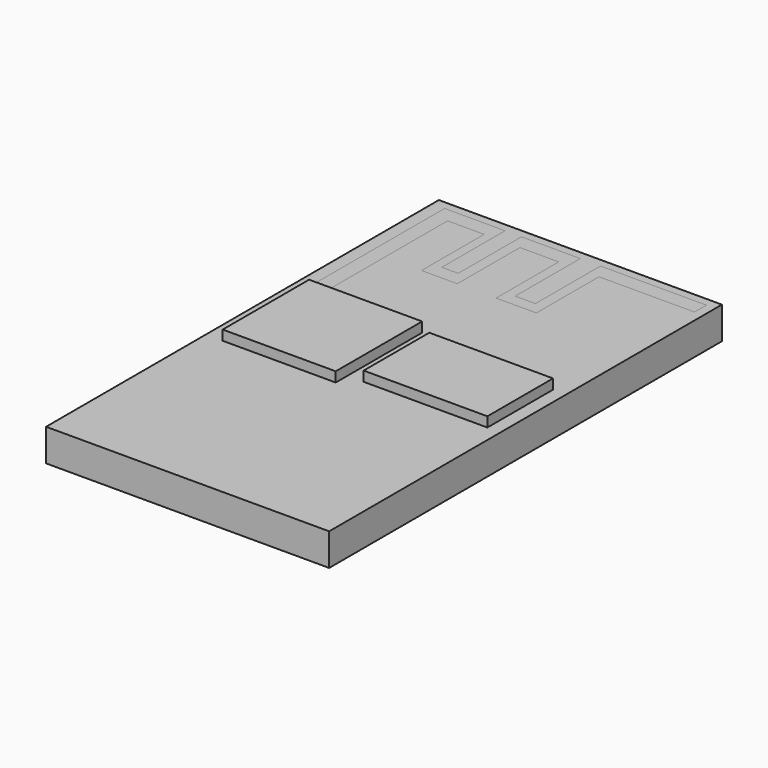
from build123d import *

# Parameters (mm, degrees)
F0_W     = 14.3
F0_H     = 24.8
F1_DEPTH = 1.63
F3_DEPTH = 1
F4_DEPTH = 1
F5_W     = 5.709587
F5_H     = 5.455827
F5_W_2   = 6.250733
F5_H_2   = 4.144751
F6_DEPTH = 0.5


with BuildPart() as f1:
    # F0 (on Top) → F1 (new body)
    with BuildSketch(Plane.XY):
        Rectangle(F0_W, F0_H)
    extrude(amount=F1_DEPTH)

    # F2 (on face) → F3 (cut)
    with BuildSketch(Plane.XY.offset(1.63)):
        Polygon((1.879126, 11.228926), (6.702036, 11.228926), (6.702036, 11.982505), (1.35162, 11.982505), (1.35162, 7.875495), (0.33, 7.875495), (0.33, 11.982505), (-2.642353, 11.982505), (-2.642353, 7.988532), (-3.47129, 7.988532), (-3.47129, 11.982505), (-6.523289, 11.982505), (-6.523289, 3.127943), (-5.769709, 3.127943), (-5.769709, 11.228926), (-3.923438, 11.228926), (-3.923438, 7.272632), (-2.114847, 7.272632), (-2.114847, 11.228926), (-0.155539, 11.228926), (-0.155539, 7.272632), (1.879126, 7.272632), align=None)
    extrude(amount=-F3_DEPTH, mode=Mode.SUBTRACT)


with BuildPart() as f4:
    # F2 (on face) → F4 (new body)
    with BuildSketch(Plane.XY.offset(1.63)):
        Polygon((1.879126, 11.228926), (6.702036, 11.228926), (6.702036, 11.982505), (1.35162, 11.982505), (1.35162, 7.875495), (0.33, 7.875495), (0.33, 11.982505), (-2.642353, 11.982505), (-2.642353, 7.988532), (-3.47129, 7.988532), (-3.47129, 11.982505), (-6.523289, 11.982505), (-6.523289, 3.127943), (-5.769709, 3.127943), (-5.769709, 11.228926), (-3.923438, 11.228926), (-3.923438, 7.272632), (-2.114847, 7.272632), (-2.114847, 11.228926), (-0.155539, 11.228926), (-0.155539, 7.272632), (1.879126, 7.272632), align=None)
    extrude(amount=-F4_DEPTH)


with BuildPart() as f6:
    # F5 (on face) → F6 (new body)
    with BuildSketch(Plane.XY.offset(1.63)):
        with Locations((-3.441456, 0.413186)):
            Rectangle(F5_W, F5_H)
        with Locations((3.360338, 0.494237)):
            Rectangle(F5_W_2, F5_H_2)
    extrude(amount=F6_DEPTH)


solid = Compound([f1.part, f4.part, f6.part])
